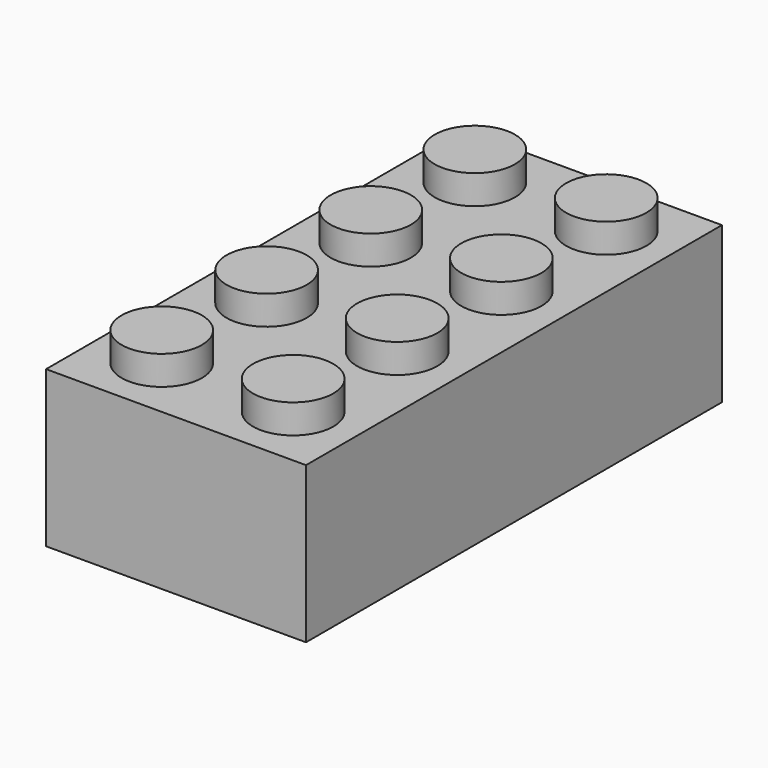
from build123d import *

# Parameters (mm, degrees)
F0_W     = 15.875
F0_H     = 31.75
F1_DEPTH = 4.7625
F2_R     = 2.4511
F3_DEPTH = 1.778
F4_W     = 13.462
F4_H     = 29.337
F4_R     = 3.2385
F5_DEPTH = 8.3566
F6_R     = 2.4765
F7_R     = 2.4765
F8_R     = 2.4765
F9_DEPTH = 8.3566


with BuildPart() as f1:
    # F0 (on Top) → F1 (new body, symmetric)
    with BuildSketch(Plane.XY):
        Rectangle(F0_W, F0_H)
    extrude(amount=F1_DEPTH, both=True)

    # F2 (on face) → F3 (join)
    with BuildSketch(Plane.XY.offset(4.7625)):
        with Locations((4.0132, 11.9507)):
            Circle(F2_R)
        with Locations((3.9878, 3.97514)):
            Circle(F2_R)
        with Locations((3.9878, -3.97506)):
            Circle(F2_R)
        with Locations((4.0132, -11.9507)):
            Circle(F2_R)
        with Locations((-4.0132, -11.9507)):
            Circle(F2_R)
        with Locations((-3.9878, -3.97506)):
            Circle(F2_R)
        with Locations((-3.9878, 3.97514)):
            Circle(F2_R)
        with Locations((-4.0132, 11.9507)):
            Circle(F2_R)
    extrude(amount=F3_DEPTH)

    # F4 (on face) → F5 (cut)
    with BuildSketch(Plane(origin=(0, 0, -4.7625), x_dir=(1, 0, 0), z_dir=(0, 0, -1))):
        Rectangle(F4_W, F4_H)
        with Locations((0, -7.98195)):
            Circle(F4_R, mode=Mode.SUBTRACT)
        Circle(F4_R, mode=Mode.SUBTRACT)
        with Locations((0, 7.98195)):
            Circle(F4_R, mode=Mode.SUBTRACT)
    extrude(amount=-F5_DEPTH, mode=Mode.SUBTRACT)

    # F6 (on face) + F7 (on face) + F8 (on face) → F9 (cut)
    with BuildSketch(Plane(origin=(0, 0, -4.7625), x_dir=(1, 0, 0), z_dir=(0, 0, -1))):
        Circle(F6_R)
    with BuildSketch(Plane(origin=(0, 0, -4.7625), x_dir=(1, 0, 0), z_dir=(0, 0, -1))):
        with Locations((0, 7.98195)):
            Circle(F7_R)
    with BuildSketch(Plane(origin=(0, 0, -4.7625), x_dir=(1, 0, 0), z_dir=(0, 0, -1))):
        with Locations((0, -7.98195)):
            Circle(F8_R)
    extrude(amount=-F9_DEPTH, mode=Mode.SUBTRACT)


solid = f1.part
